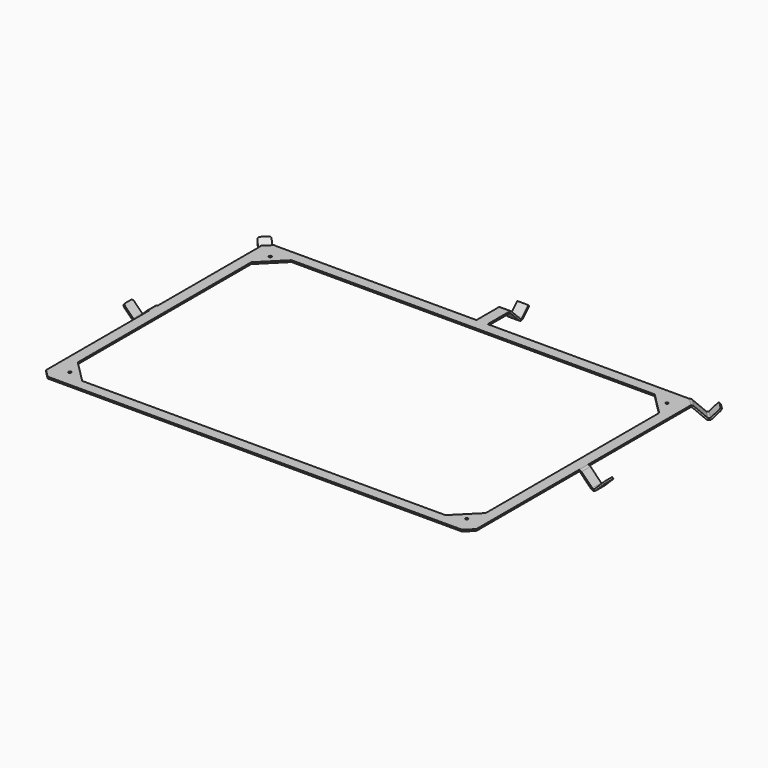
from build123d import *

# Parameters (mm, degrees)
PAD_DEPTH       = 1.5
CHAMFER_SIZE    = 20
CHAMFER001_SIZE = 7.07
SKETCH001_W     = 10
SKETCH001_H     = 1.5
PAD001_DEPTH    = 1.5
POCKET_DEPTH    = 10
PAD002_DEPTH    = 10
FILLET_R        = 2
SKETCH004_R     = 1.23
POCKET001_DEPTH = 5
PAD003_DEPTH    = 5
FILLET001_R     = 2
PAD004_DEPTH    = 5


with BuildPart() as pocket001:
    # Sketch → Pad (new body)
    with BuildSketch(Plane.XY):
        Polygon((-192.5, 127), (0, 127), (0, 117), (-182.5, 117), (-182.5, -117), (0, -117), (0, -127), (-192.5, -127), align=None)
    extrude(amount=PAD_DEPTH)

    # Chamfer
    chamfer_edges = [pocket001.edges().sort_by_distance(p)[0] for p in [
        (-182.5, 117, 0.75),
        (-182.5, -117, 0.75),
    ]]
    chamfer(chamfer_edges, length=CHAMFER_SIZE)

    # Chamfer001
    chamfer001_edges = [pocket001.edges().sort_by_distance(p)[0] for p in [
        (-192.5, -127, 0.75),
        (-192.5, 127, 0.75),
    ]]
    chamfer(chamfer001_edges, length=CHAMFER001_SIZE)

    # Sketch001 → Pad001 (new body)
    with BuildSketch(Plane(origin=(-156.215, 156.215, 0), x_dir=(-0.707107, -0.707107, 0), z_dir=(-0.707107, 0.707107, 0))):
        with Locations((46.316249, 0.75)):
            Rectangle(SKETCH001_W, SKETCH001_H)
    extrude(amount=PAD001_DEPTH)

    # Sketch002 → Pocket (cut)
    with BuildSketch(Plane(origin=(-29.215, -29.215, 0), x_dir=(-0.707107, 0.707107, 0), z_dir=(0.707107, 0.707107, 0))):
        Polygon((220.921372, 1.5), (225.921372, -3.5), (225.921372, 1.5), align=None)
    extrude(amount=-POCKET_DEPTH, mode=Mode.SUBTRACT)

    # Sketch003 → Pad002 (new body)
    with BuildSketch(Plane(origin=(-29.215, -29.215, 0), x_dir=(-0.707107, 0.707107, 0), z_dir=(0.707107, 0.707107, 0))):
        with BuildLine():
            Line((223.042703, 0.621321), (232.724409, -9.060385))
            ThreePointArc((232.724409, -9.060385), (233.785069, -9.499724), (234.84573, -9.060385))
            Line((234.84573, -9.060385), (241.906191, -1.999923))
            Line((241.906191, -1.999923), (242.966851, -3.060584))
            Line((242.966851, -3.060584), (235.90639, -10.121045))
            ThreePointArc((231.66375, -10.121045), (233.78507, -10.999724), (235.90639, -10.121045))
            Line((221.982044, -0.43934), (231.66375, -10.121045))
            ThreePointArc((221.982044, -0.43934), (221.495403, -0.114178), (220.921372, 0))
            Line((220.921372, 1.5), (220.921372, 0))
            ThreePointArc((223.042703, 0.621321), (222.069428, 1.271641), (220.921372, 1.5))
        make_face()
    extrude(amount=-PAD002_DEPTH)

    # Fillet
    fillet_edges = [pocket001.edges().sort_by_distance(p)[0] for p in [
        (-200.643508, 142.213508, -2.530254),
        (-207.714576, 135.14244, -2.530254),
    ]]
    fillet(fillet_edges, radius=FILLET_R)

    # Sketch004 → Pocket001 (cut)
    with BuildSketch(Plane.XY.offset(1.5)):
        with Locations((-177.5, 112)):
            Circle(SKETCH004_R)
        with Locations((-177.5, -112)):
            Circle(SKETCH004_R)
    extrude(amount=-POCKET001_DEPTH, mode=Mode.SUBTRACT)


with BuildPart() as fusion:
    # Sketch005 → Pad003 (new body, symmetric)
    with BuildSketch(Plane.XZ):
        with BuildLine():
            Line((-192.5, 1.5), (-192.5, 0))
            ThreePointArc((-192.5, 0), (-193.074026, -0.114181), (-193.560661, -0.439341))
            Line((-193.560661, -0.439341), (-203.242349, -10.121028))
            ThreePointArc((-207.485004, -10.12104), (-205.363674, -10.999721), (-203.242349, -10.121028))
            Line((-216.045946, -1.560097), (-207.485004, -10.12104))
            Line((-214.985286, -0.499437), (-216.045946, -1.560097))
            Line((-206.424344, -9.060379), (-214.985286, -0.499437))
            ThreePointArc((-206.424344, -9.060379), (-205.363686, -9.499721), (-204.303026, -9.060386))
            Line((-194.62132, 0.62132), (-204.303026, -9.060386))
            ThreePointArc((-192.5, 1.5), (-193.64805, 1.271639), (-194.62132, 0.62132))
        make_face()
    extrude(amount=PAD003_DEPTH, both=True)

    # Fillet001
    fillet001_edges = [fusion.edges().sort_by_distance(p)[0] for p in [
        (-215.515616, -5, -1.029767),
        (-215.515616, 5, -1.029767),
    ]]
    fillet(fillet001_edges, radius=FILLET001_R)

    # Fusion: union Pocket001
    add(pocket001.part)


with BuildPart() as fusion001:
    # Part__Mirroring: instance of Fusion
    add(fusion.part.mirror(Plane(origin=(0, 0, 0), x_dir=(0, -1, 0), z_dir=(1, 0, 0))))

    # Fusion001: union Fusion
    add(fusion.part)


with BuildPart() as fusion002:
    # Sketch006 → Pad004 (new body, symmetric)
    with BuildSketch(Plane.YZ):
        with BuildLine():
            Line((127, 1.5), (127, 0))
            Line((127, 0), (151.636, 0))
            ThreePointArc((152.69666, -0.43934), (152.210025, -0.114181), (151.636, 0))
            Line((152.69666, -0.43934), (162.378366, -10.121046))
            ThreePointArc((162.378366, -10.121046), (164.499688, -10.999725), (166.621008, -10.121043))
            Line((166.621008, -10.121043), (173.68147, -3.060581))
            Line((173.68147, -3.060581), (172.620807, -1.999924))
            Line((165.560346, -9.060385), (172.620807, -1.999924))
            ThreePointArc((163.439026, -9.060385), (164.499686, -9.499725), (165.560346, -9.060385))
            Line((153.75732, 0.621321), (163.439026, -9.060385))
            ThreePointArc((153.75732, 0.621321), (152.78405, 1.271639), (151.636, 1.5))
            Line((127, 1.5), (151.636, 1.5))
        make_face()
    extrude(amount=PAD004_DEPTH, both=True)

    # Fusion002: union Fusion001
    add(fusion001.part)


solid = fusion002.part
